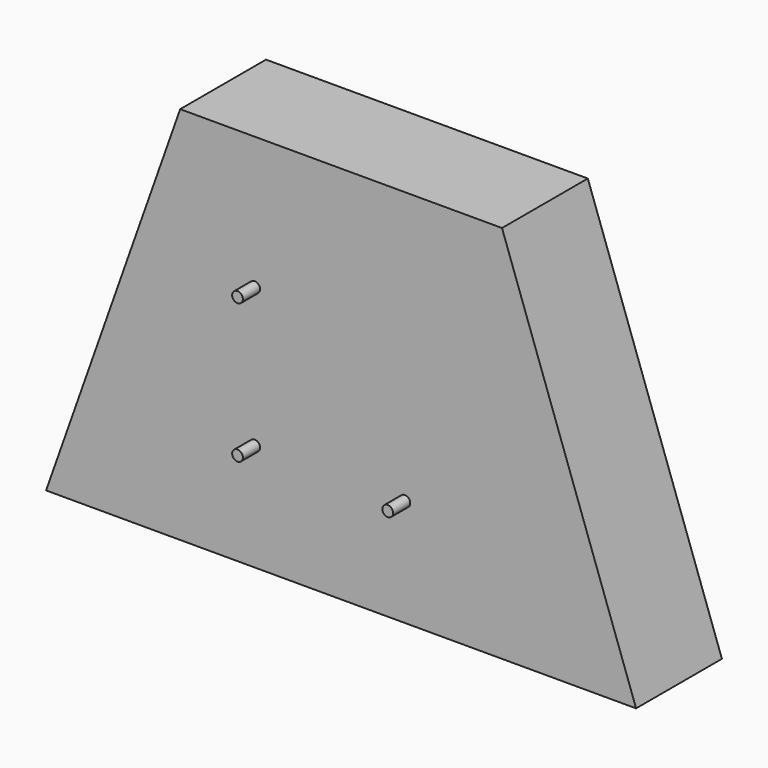
from build123d import *

# Parameters (mm, degrees)
F1_DEPTH = 20
F2_R     = 1
F3_DEPTH = 4


with BuildPart() as f1:
    # F0 (on Front) → F1 (new body)
    with BuildSketch(Plane.XZ):
        Polygon((30, 32.439652), (0, 32.439652), (-30, 32.439652), (-55, -38.271026), (0, -38.271026), (55, -38.271026), align=None)
    extrude(amount=F1_DEPTH)

    # F2 (on face) → F3 (join)
    with BuildSketch(Plane.XZ.offset(20)):
        with Locations((-16.109127, 7.728974)):
            Circle(F2_R)
        with Locations((-16.109127, -18.271026)):
            Circle(F2_R)
        with Locations((11.890873, -18.271026)):
            Circle(F2_R)
    extrude(amount=F3_DEPTH)


solid = f1.part
